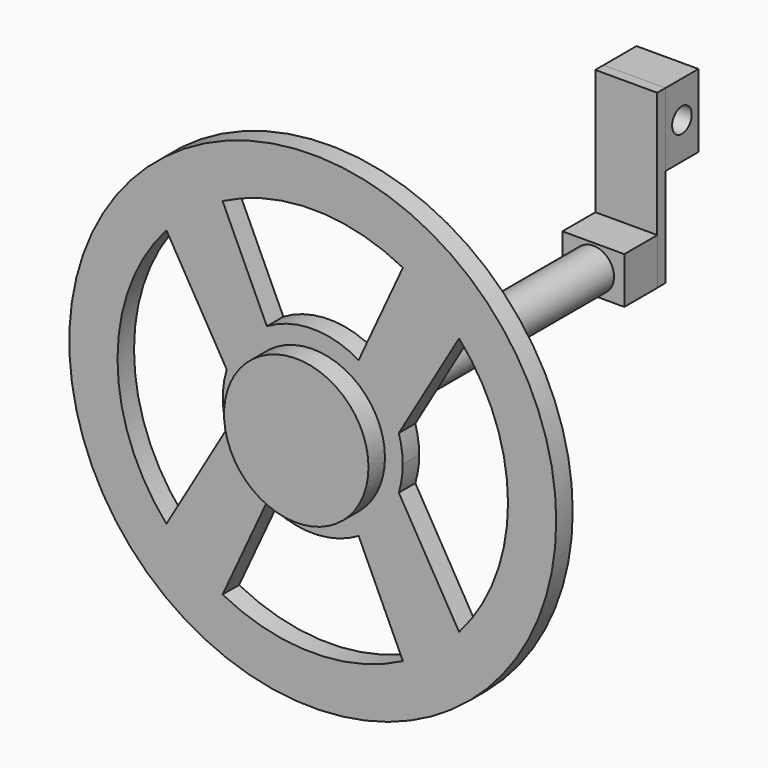
from build123d import *

# Parameters (mm, degrees)
F0_R      = 149.86
F0_R_2    = 26.648736698
F1_DEPTH  = 12.7
F2_R      = 44.45
F3_DEPTH  = 25.4
F4_R      = 12.7
F5_DEPTH  = 203.2
F6_W      = 38.1
F6_H      = 28.603638758
F6_R      = 12.7
F7_DEPTH  = 25.4
F8_W      = 37.9969605684
F8_H      = 28.603638758
F9_DEPTH  = 6.35
F10_W     = 38.1
F10_H     = 45.033685863
F11_DEPTH = 25.4
F12_R     = 7.5372344928
F13_DEPTH = 44.196


with BuildPart() as f1:
    # F0 (on Front) → F1 (new body)
    with BuildSketch(Plane.XZ):
        Circle(F0_R)
        with BuildLine():
            ThreePointArc((90.0671052077, 79.5609525029), (112.3962682088, 42.5336043194), (120.17499159, 0))
            ThreePointArc((120.17499159, 0), (112.3962682088, -42.5336043194), (90.0671052077, -79.5609525029))
            ThreePointArc((90.0671052077, -79.5609525029), (74.0247348127, -94.66977997), (55.4931745404, -106.5951977487))
            ThreePointArc((55.4931745404, -106.5951977487), (0, -120.17499159), (-55.4931745404, -106.5951977487))
            ThreePointArc((-55.4931745404, -106.5951977487), (-74.0247348127, -94.66977997), (-90.0671052077, -79.5609525029))
            ThreePointArc((-90.0671052077, -79.5609525029), (-120.17499159, 0), (-90.0671052077, 79.5609525029))
            ThreePointArc((-90.0671052077, 79.5609525029), (-74.0247348127, 94.66977997), (-55.4931745404, 106.5951977487))
            ThreePointArc((-55.4931745404, 106.5951977487), (0, 120.17499159), (55.4931745404, 106.5951977487))
            ThreePointArc((55.4931745404, 106.5951977487), (74.0247348127, 94.66977997), (90.0671052077, 79.5609525029))
        make_face(mode=Mode.SUBTRACT)
        with BuildLine():
            ThreePointArc((55.3679829909, 0), (54.7634248849, 8.1597080434), (52.9629527999, 16.1412258268))
            ThreePointArc((52.9629527999, 16.1412258268), (43.5483936402, 34.1928494255), (28.2457494791, 47.6213311116))
            ThreePointArc((28.2457494791, 47.6213311116), (0, 55.3679829909), (-28.2457494791, 47.6213311116))
            ThreePointArc((-28.2457494791, 47.6213311116), (-43.5483936402, 34.1928494255), (-52.9629527999, 16.1412258268))
            ThreePointArc((-52.9629527999, 16.1412258268), (-55.3679829909, 0), (-52.9629527999, -16.1412258268))
            ThreePointArc((-52.9629527999, -16.1412258268), (-43.5483936402, -34.1928494255), (-28.2457494791, -47.6213311116))
            ThreePointArc((-28.2457494791, -47.6213311116), (0, -55.3679829909), (28.2457494791, -47.6213311116))
            ThreePointArc((28.2457494791, -47.6213311116), (43.5483936402, -34.1928494255), (52.9629527999, -16.1412258268))
            ThreePointArc((52.9629527999, -16.1412258268), (54.7634248849, -8.1597080434), (55.3679829909, 0))
        make_face()
        Circle(F0_R_2, mode=Mode.SUBTRACT)
        with BuildLine():
            Line((-28.2457494791, 47.6213311116), (-55.4931745404, 106.5951977487))
            ThreePointArc((-55.4931745404, 106.5951977487), (-74.0247348127, 94.66977997), (-90.0671052077, 79.5609525029))
            Line((-90.0671052077, 79.5609525029), (-52.9629527999, 16.1412258268))
            ThreePointArc((-52.9629527999, 16.1412258268), (-43.5483936402, 34.1928494255), (-28.2457494791, 47.6213311116))
        make_face()
        with BuildLine():
            ThreePointArc((-90.0671052077, -79.5609525029), (-74.0247348127, -94.66977997), (-55.4931745404, -106.5951977487))
            Line((-55.4931745404, -106.5951977487), (-28.2457494791, -47.6213311116))
            ThreePointArc((-28.2457494791, -47.6213311116), (-43.5483936402, -34.1928494255), (-52.9629527999, -16.1412258268))
            Line((-52.9629527999, -16.1412258268), (-90.0671052077, -79.5609525029))
        make_face()
        with BuildLine():
            ThreePointArc((55.4931745404, -106.5951977487), (74.0247348127, -94.66977997), (90.0671052077, -79.5609525029))
            Line((90.0671052077, -79.5609525029), (52.9629527999, -16.1412258268))
            ThreePointArc((52.9629527999, -16.1412258268), (43.5483936402, -34.1928494255), (28.2457494791, -47.6213311116))
            Line((28.2457494791, -47.6213311116), (55.4931745404, -106.5951977487))
        make_face()
        with BuildLine():
            Line((52.9629527999, 16.1412258268), (90.0671052077, 79.5609525029))
            ThreePointArc((90.0671052077, 79.5609525029), (74.0247348127, 94.66977997), (55.4931745404, 106.5951977487))
            Line((55.4931745404, 106.5951977487), (28.2457494791, 47.6213311116))
            ThreePointArc((28.2457494791, 47.6213311116), (43.5483936402, 34.1928494255), (52.9629527999, 16.1412258268))
        make_face()
    extrude(amount=F1_DEPTH)

    # F2 (on Front) → F3 (join)
    with BuildSketch(Plane.XZ):
        Circle(F2_R)
    extrude(amount=F3_DEPTH)

    # F4 (on Front) → F5 (join)
    with BuildSketch(Plane.XZ):
        Circle(F4_R)
    extrude(amount=-F5_DEPTH)

    # F6 (on face) → F7 (join)
    with BuildSketch(Plane(origin=(0, 203.2, 0), x_dir=(-1, 0, 0), z_dir=(0, 1, 0))):
        Rectangle(F6_W, F6_H)
        Circle(F6_R, mode=Mode.SUBTRACT)
        Circle(F6_R)
    extrude(amount=F7_DEPTH)

    # F8 (on face) → F9 (join)
    with BuildSketch(Plane(origin=(0, 228.6, 0), x_dir=(-1, 0, 0), z_dir=(0, 1, 0))):
        Polygon((19.05, 14.301819379), (19.05, -14.301819379), (19.1530394316, -14.301819379), (19.1530394316, 91.3918912411), (-18.9469605684, 91.3918912411), (-18.9469605684, 14.301819379), align=None)
        with Locations((0.0515197158, 0)):
            Rectangle(F8_W, F8_H)
        Polygon((19.05, 14.301819379), (19.05, -14.301819379), (19.1530394316, -14.301819379), (19.1530394316, 91.3918912411), (-18.9469605684, 91.3918912411), (-18.9469605684, 14.301819379), align=None)
    extrude(amount=F9_DEPTH)


with BuildPart() as f11:
    # F10 (on face) → F11 (new body)
    with BuildSketch(Plane(origin=(0, 234.95, 0), x_dir=(-1, 0, 0), z_dir=(0, 1, 0))):
        with Locations((0.1030394316, 68.8750483096)):
            Rectangle(F10_W, F10_H)
    extrude(amount=F11_DEPTH)

    # F12 (on face) → F13 (cut)
    with BuildSketch(Plane.YZ.offset(18.9469605684)):
        with Locations((247.65, 68.8750483096)):
            Circle(F12_R)
    extrude(amount=-F13_DEPTH, mode=Mode.SUBTRACT)


solid = Compound([f1.part, f11.part])
